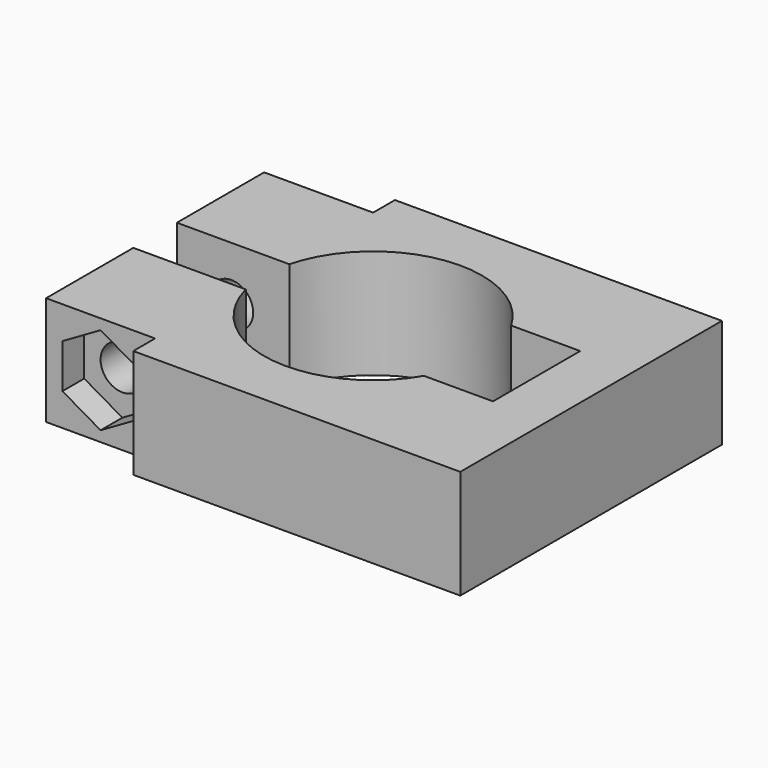
from build123d import *

# Parameters (mm, degrees)
CYLINDER_R             = 10
CYLINDER_DEPTH         = 10
CYLINDER001_R          = 2
CYLINDER001_DEPTH      = 30
CYLINDER001_ROLL_ANGLE = -90
BOX002_W               = 10
BOX002_H               = 2.5
BOX002_DEPTH           = 10
BOX003_W               = 10
BOX003_H               = 2.5
BOX003_DEPTH           = 10
PAD_DEPTH              = 2.5
BOX004_W               = 15
BOX004_H               = 10
BOX004_DEPTH           = 10
BOX001_W               = 15
BOX001_H               = 5
BOX001_DEPTH           = 10
BOX_W                  = 40
BOX_H                  = 30
BOX_DEPTH              = 10


with BuildPart() as cylinder:
    # Cylinder → Cylinder (new body)
    with BuildSketch(Plane.XY.offset(-5)):
        Circle(CYLINDER_R)
    extrude(amount=CYLINDER_DEPTH)


with BuildPart() as cylinder001:
    # Cylinder001 → Cylinder001 (new body)
    with BuildSketch(Plane.XY):
        Circle(CYLINDER001_R)
    extrude(amount=CYLINDER001_DEPTH)


with BuildPart() as cylinder001_1:
    # Cylinder001 roll: moved
    add(cylinder001.part.rotate(Axis((0, 0, 0), (1, 0, 0)), CYLINDER001_ROLL_ANGLE))


with BuildPart() as cylinder001_2:
    # Cylinder001 placement: moved
    add(cylinder001_1.part.moved(Location((-15, -15, 0))))


with BuildPart() as cube002:
    # Box002 → Box002 (new body)
    with BuildSketch(Plane(origin=(-20, 12.5, -5), x_dir=(1, 0, 0), z_dir=(0, 0, 1))):
        with Locations((5, 1.25)):
            Rectangle(BOX002_W, BOX002_H)
    extrude(amount=BOX002_DEPTH)


with BuildPart() as cube003:
    # Box003 → Box003 (new body)
    with BuildSketch(Plane(origin=(-20, -15, -5), x_dir=(1, 0, 0), z_dir=(0, 0, 1))):
        with Locations((5, 1.25)):
            Rectangle(BOX003_W, BOX003_H)
    extrude(amount=BOX003_DEPTH)


with BuildPart() as body:
    # Sketch → Pad (new body)
    with BuildSketch(Plane.XZ):
        Polygon((0, -4.041452), (3.5, -2.020726), (3.5, 2.020726), (0, 4.041452), (-3.5, 2.020726), (-3.5, -2.020726), align=None)
    extrude(amount=-PAD_DEPTH)


with BuildPart() as body_1:
    # Body placement: moved
    add(body.part.moved(Location((-15, -12.5, 0))))


with BuildPart() as cube004:
    # Box004 → Box004 (new body)
    with BuildSketch(Plane(origin=(0, -5, -5), x_dir=(1, 0, 0), z_dir=(0, 0, 1))):
        with Locations((7.5, 5)):
            Rectangle(BOX004_W, BOX004_H)
    extrude(amount=BOX004_DEPTH)


with BuildPart() as negative_fusion:
    # Box001 → Box001 (new body)
    with BuildSketch(Plane(origin=(-20, -2.5, -5), x_dir=(1, 0, 0), z_dir=(0, 0, 1))):
        with Locations((7.5, 2.5)):
            Rectangle(BOX001_W, BOX001_H)
    extrude(amount=BOX001_DEPTH)

    # Fusion: union Cylinder, Cylinder001, Cube002, Cube003, Body, Cube004
    add(cylinder.part)
    add(cylinder001_2.part)
    add(cube002.part)
    add(cube003.part)
    add(body_1.part)
    add(cube004.part)


with BuildPart() as cut:
    # Box → Box (new body)
    with BuildSketch(Plane(origin=(-20, -15, -5), x_dir=(1, 0, 0), z_dir=(0, 0, 1))):
        with Locations((20, 15)):
            Rectangle(BOX_W, BOX_H)
    extrude(amount=BOX_DEPTH)

    # Cut: cut Negative Fusion
    add(negative_fusion.part, mode=Mode.SUBTRACT)


solid = cut.part
